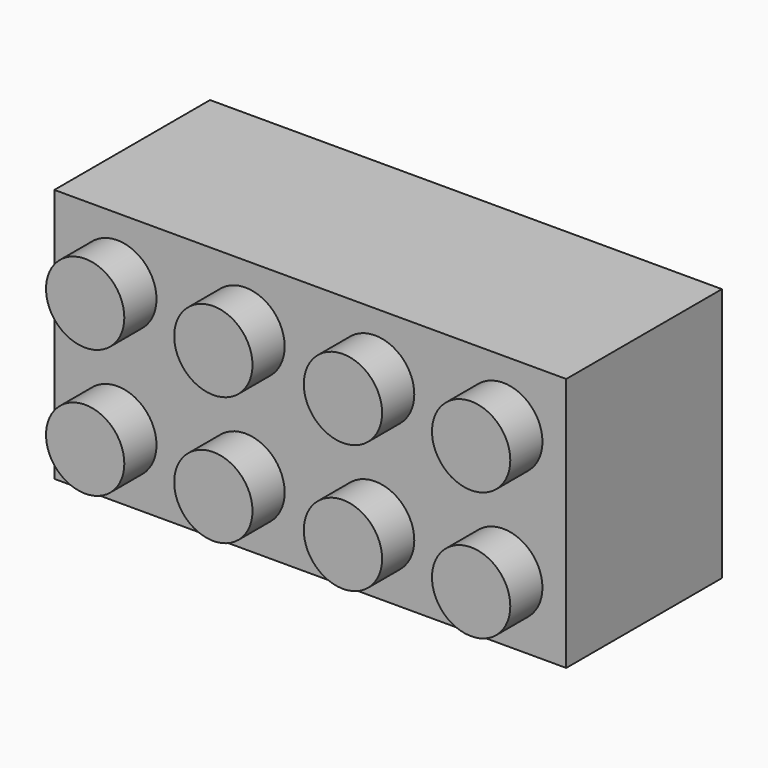
from build123d import *

# Parameters (mm, degrees)
F0_W          = 31.83
F0_H          = 15.82
F0_R          = 2.435
F1_DEPTH      = 2.5
F1_DEPTH_BACK = 9.6
F2_DEPTH      = 5
F3_R          = 3.215
F3_R_2        = 2.385
F4_DEPTH      = 8.4


with BuildPart() as f1:
    # F0 (on Front) → F1 (new body, two sides)
    with BuildSketch(Plane.XZ) as f1_sk:
        with Locations((-5.828721876, 24.0466938629)):
            Rectangle(F0_W, F0_H)
        with Locations((-17.828721876, 20.0516938629)):
            Circle(F0_R, mode=Mode.SUBTRACT)
        with Locations((-9.858721876, 20.0516938629)):
            Circle(F0_R, mode=Mode.SUBTRACT)
        with Locations((-1.798721876, 20.0516938629)):
            Circle(F0_R, mode=Mode.SUBTRACT)
        with Locations((6.171278124, 20.0516938629)):
            Circle(F0_R, mode=Mode.SUBTRACT)
        with Locations((-17.828721876, 28.0416938629)):
            Circle(F0_R, mode=Mode.SUBTRACT)
        with Locations((-9.858721876, 28.0416938629)):
            Circle(F0_R, mode=Mode.SUBTRACT)
        with Locations((-1.798721876, 28.0416938629)):
            Circle(F0_R, mode=Mode.SUBTRACT)
        with Locations((6.171278124, 28.0416938629)):
            Circle(F0_R, mode=Mode.SUBTRACT)
        with Locations((-1.798721876, 28.0416938629)):
            Circle(F0_R)
        with Locations((-9.858721876, 28.0416938629)):
            Circle(F0_R)
        with Locations((-17.828721876, 28.0416938629)):
            Circle(F0_R)
        with Locations((-17.828721876, 20.0516938629)):
            Circle(F0_R)
        with Locations((-9.858721876, 20.0516938629)):
            Circle(F0_R)
        with Locations((-1.798721876, 20.0516938629)):
            Circle(F0_R)
        with Locations((6.171278124, 20.0516938629)):
            Circle(F0_R)
        with Locations((6.171278124, 28.0416938629)):
            Circle(F0_R)
    extrude(amount=F1_DEPTH)
    extrude(f1_sk.sketch, amount=-F1_DEPTH_BACK)

    # F0 (on Front) → F2 (join)
    with BuildSketch(Plane.XZ):
        with Locations((-17.828721876, 28.0416938629)):
            Circle(F0_R)
        with Locations((-17.828721876, 20.0516938629)):
            Circle(F0_R)
        with Locations((-9.858721876, 28.0416938629)):
            Circle(F0_R)
        with Locations((-9.858721876, 20.0516938629)):
            Circle(F0_R)
        with Locations((-1.798721876, 28.0416938629)):
            Circle(F0_R)
        with Locations((-1.798721876, 20.0516938629)):
            Circle(F0_R)
        with Locations((6.171278124, 28.0416938629)):
            Circle(F0_R)
        with Locations((6.171278124, 20.0516938629)):
            Circle(F0_R)
    extrude(amount=F2_DEPTH)

    # F3 (on face) → F4 (cut)
    with BuildSketch(Plane(origin=(0, 9.6, 0), x_dir=(-1, 0, 0), z_dir=(0, 1, 0))):
        with BuildLine():
            Line((5.4793441668, 30.6818692116), (-8.7347330976, 30.6818692116))
            Line((-8.7347330976, 30.6818692116), (-8.7347330976, 17.3618692116))
            Line((-8.7347330976, 17.3618692116), (5.4793441668, 17.3618692116))
            Line((5.4793441668, 17.3618692116), (5.4793441668, 20.733492265))
            ThreePointArc((5.4793441668, 20.733492265), (2.6052669024, 23.9303652197), (5.4793441668, 27.1272381744))
            Line((5.4793441668, 27.1272381744), (5.4793441668, 30.6818692116))
        make_face()
        with Locations((-1.8597330976, 23.9303652197)):
            Circle(F3_R, mode=Mode.SUBTRACT)
        with BuildLine():
            Line((6.6202669024, 30.6818692116), (6.2793441668, 30.6818692116))
            Line((6.2793441668, 30.6818692116), (6.2793441668, 27.1124200692))
            ThreePointArc((6.2793441668, 27.1124200692), (8.2505095246, 26.0351563727), (9.0352669024, 23.9303652197))
            ThreePointArc((9.0352669024, 23.9303652197), (8.2505095246, 21.8255740668), (6.2793441668, 20.7483103702))
            Line((6.2793441668, 20.7483103702), (6.2793441668, 17.3618692116))
            Line((6.2793441668, 17.3618692116), (6.6202669024, 17.3618692116))
            Line((6.6202669024, 17.3618692116), (20.3752669024, 17.3618692116))
            Line((20.3752669024, 17.3618692116), (20.3752669024, 30.6818692116))
            Line((20.3752669024, 30.6818692116), (6.6202669024, 30.6818692116))
        make_face()
        with Locations((13.5002669024, 23.9303652197)):
            Circle(F3_R, mode=Mode.SUBTRACT)
        with Locations((-1.8597330976, 23.9303652197)):
            Circle(F3_R_2)
        with Locations((13.5002669024, 23.9303652197)):
            Circle(F3_R_2)
        with BuildLine():
            Line((5.4793441668, 21.5698575014), (5.4793441668, 26.290872938))
            ThreePointArc((5.4793441668, 26.290872938), (3.4352669024, 23.9303652197), (5.4793441668, 21.5698575014))
        make_face()
        with BuildLine():
            ThreePointArc((8.2052669024, 23.9303652197), (7.6618863359, 25.4458396874), (6.2793441668, 26.2707654131))
            Line((6.2793441668, 26.2707654131), (6.2793441668, 21.5899650263))
            ThreePointArc((6.2793441668, 21.5899650263), (7.6618863359, 22.414890752), (8.2052669024, 23.9303652197))
        make_face()
        with BuildLine():
            ThreePointArc((6.2793441668, 26.2707654131), (5.8801935351, 26.3146122285), (5.4793441668, 26.290872938))
            Line((5.4793441668, 26.290872938), (5.4793441668, 21.5698575014))
            ThreePointArc((5.4793441668, 21.5698575014), (5.8801935351, 21.546118211), (6.2793441668, 21.5899650263))
            Line((6.2793441668, 21.5899650263), (6.2793441668, 26.2707654131))
        make_face()
    extrude(amount=-F4_DEPTH, mode=Mode.SUBTRACT)


solid = f1.part
